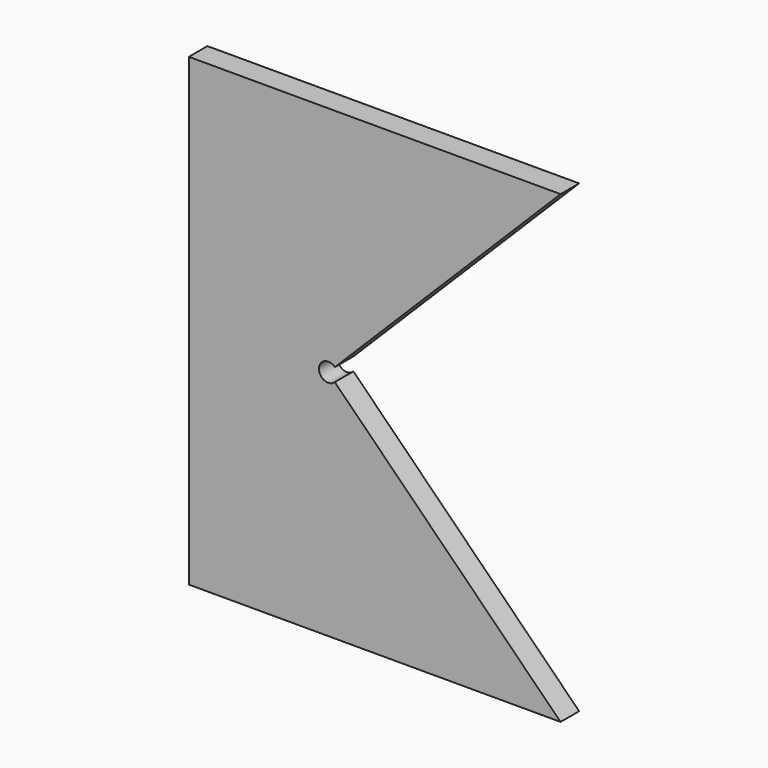
from build123d import *

# Parameters (mm, degrees)
F1_DEPTH = 5
F2_R     = 2
F3_DEPTH = 5.001


with BuildPart() as f1:
    # F0 (on Front) → F1 (new body)
    with BuildSketch(Plane.XZ):
        Polygon((0, 100), (0, 0), (80, 0), (30, 50), (80, 100), align=None)
    extrude(amount=F1_DEPTH)

    # F2 (on face) → F3 (cut, through all)
    with BuildSketch(Plane.XZ.offset(5)):
        with Locations((30, 50)):
            Circle(F2_R)
    extrude(amount=-F3_DEPTH, mode=Mode.SUBTRACT)


solid = f1.part
